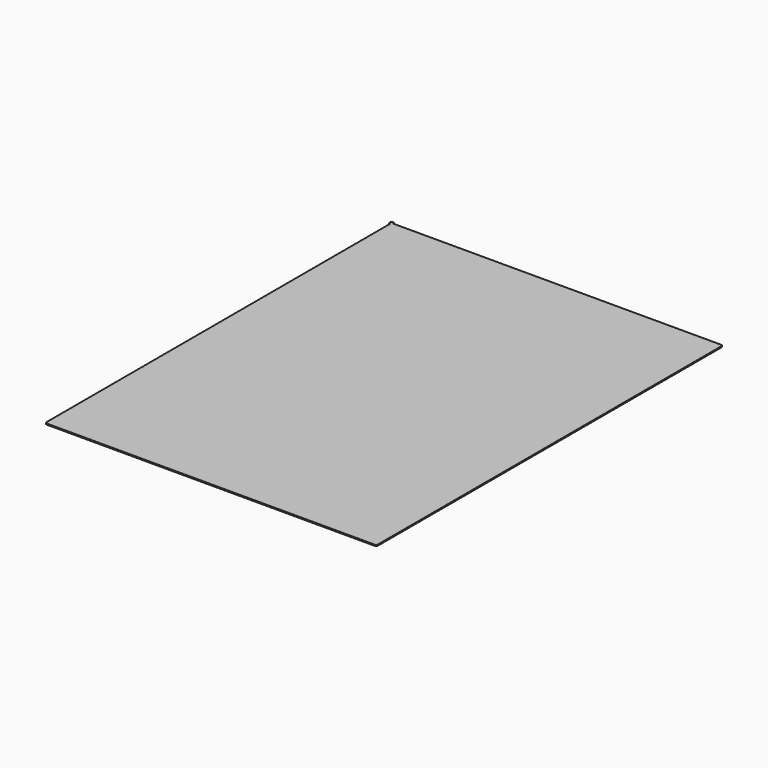
from build123d import *

# Parameters (mm, degrees)
CYLINDER_R     = 0.5
CYLINDER_DEPTH = 0.3
BOX003_W       = 92.6
BOX003_H       = 121
BOX003_DEPTH   = 0.3
FILLET001_R    = 0.5
FILLET002_R    = 0.5
FILLET003_R    = 0.5
FILLET004_R    = 0.5


with BuildPart() as cylinder:
    # Cylinder → Cylinder (new body)
    with BuildSketch(Plane(origin=(-17, 1, 10), x_dir=(1, 0, 0), z_dir=(0, 0, 1))):
        Circle(CYLINDER_R)
    extrude(amount=CYLINDER_DEPTH)


with BuildPart() as displaybase001:
    # Box003 → Box003 (new body)
    with BuildSketch(Plane(origin=(-17, -120, 10), x_dir=(1, 0, 0), z_dir=(0, 0, 1))):
        with Locations((46.3, 60.5)):
            Rectangle(BOX003_W, BOX003_H)
    extrude(amount=BOX003_DEPTH)

    # Fillet001
    fillet001_edges = [displaybase001.edges().sort_by_distance(p)[0] for p in [
        (-17, 1, 10.15),
    ]]
    fillet(fillet001_edges, radius=FILLET001_R)

    # Fillet002
    fillet002_edges = [displaybase001.edges().sort_by_distance(p)[0] for p in [
        (-17, -120, 10.15),
    ]]
    fillet(fillet002_edges, radius=FILLET002_R)

    # Fillet003
    fillet003_edges = [displaybase001.edges().sort_by_distance(p)[0] for p in [
        (75.6, -120, 10.15),
    ]]
    fillet(fillet003_edges, radius=FILLET003_R)

    # Fillet004
    fillet004_edges = [displaybase001.edges().sort_by_distance(p)[0] for p in [
        (75.6, 1, 10.15),
    ]]
    fillet(fillet004_edges, radius=FILLET004_R)

    # Fusion: union Cylinder
    add(cylinder.part)


with BuildPart() as displaybase001_1:
    # Fusion placement: moved
    add(displaybase001.part.moved(Location((0, 0, -0.1))))


solid = displaybase001_1.part
